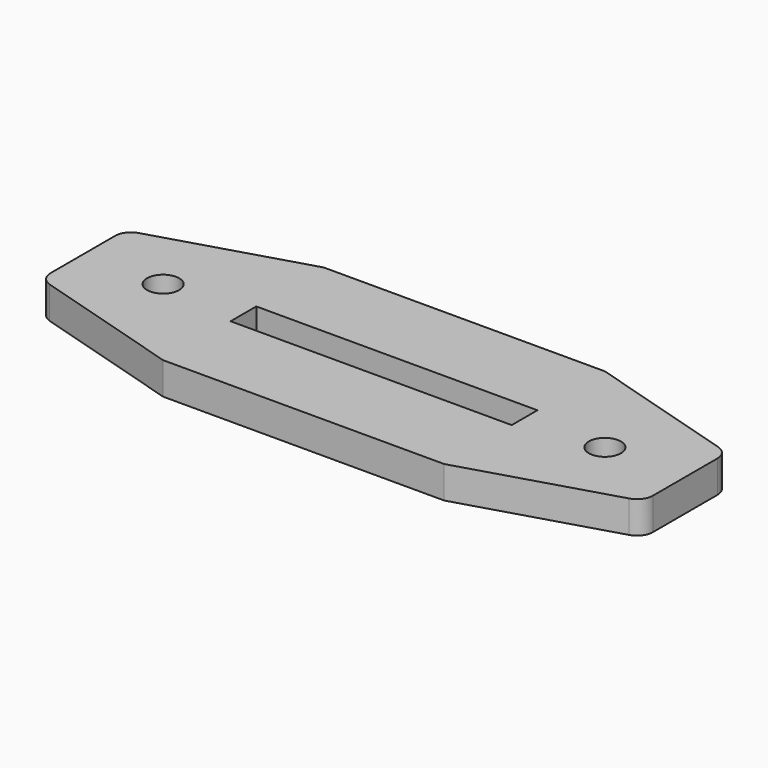
from build123d import *

# Parameters (mm, degrees)
F0_R     = 2
F0_W     = 35
F0_H     = 4
F1_DEPTH = 4
F2_R     = 2


with BuildPart() as f1:
    # F0 (on Top) → F1 (new body)
    with BuildSketch(Plane.XY):
        Polygon((17.5, 12.5), (0, 12.5), (-17.5, 12.5), (-37.5, 6.5), (-37.5, -6.5), (-17.5, -12.5), (0, -12.5), (17.5, -12.5), (37.5, -6.5), (37.5, 6.5), align=None)
        with Locations((-27.5, 0)):
            Circle(F0_R, mode=Mode.SUBTRACT)
        Rectangle(F0_W, F0_H, mode=Mode.SUBTRACT)
        with Locations((27.5, 0)):
            Circle(F0_R, mode=Mode.SUBTRACT)
    extrude(amount=F1_DEPTH)

    # F2
    f2_edges = [f1.edges().sort_by_distance(p)[0] for p in [
        (-37.5, -6.5, 2),
        (37.5, -6.5, 2),
        (37.5, 6.5, 2),
        (-37.5, 6.5, 2),
    ]]
    fillet(f2_edges, radius=F2_R)


solid = f1.part
